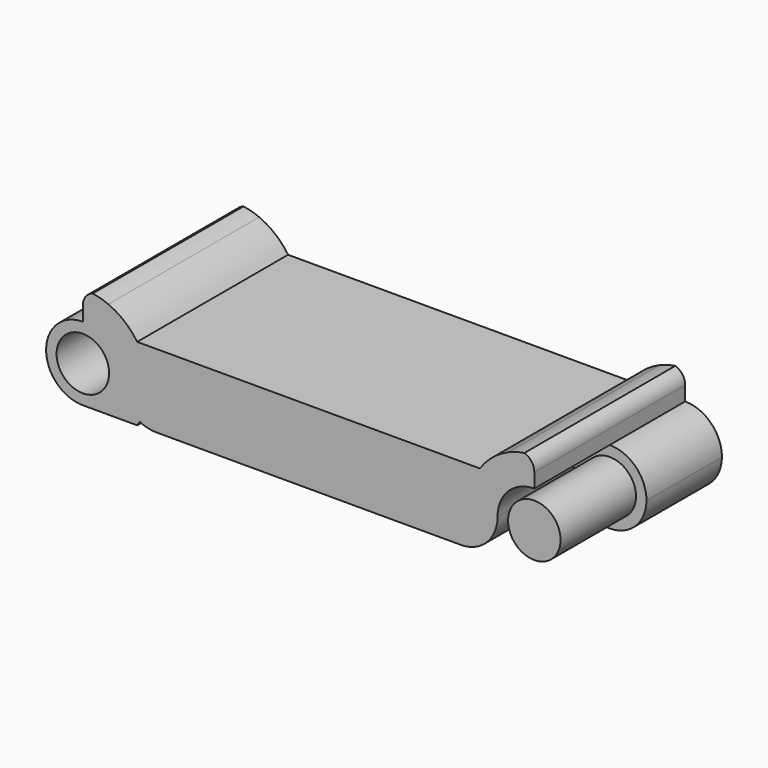
from build123d import *

# Parameters (mm, degrees)
F1_DEPTH = 14.37
F0_R     = 2
F2_DEPTH = 7.185
F3_DEPTH = 14.37


with BuildPart() as f1:
    # F0 (on Front) → F1 (new body)
    with BuildSketch(Plane.XZ):
        with BuildLine():
            Line((3.9000000034, 5.6), (2.8, 5.6))
            ThreePointArc((2.8, 5.6), (4.7798989873, 4.7798989873), (5.6, 2.8))
            ThreePointArc((5.6, 2.8), (6.0135800872, 1.3354181484), (7.1321428571, 0.3034947896))
            ThreePointArc((7.1321428571, 0.3034947896), (7.7481620558, 0.0769305381), (8.4, 0))
            Line((8.4, 0), (31.6, 0))
            ThreePointArc((31.6, 0), (32.2518379442, 0.0769305381), (32.8678571429, 0.3034947896))
            ThreePointArc((32.8678571429, 0.3034947896), (33.9864199128, 1.3354181484), (34.4, 2.8))
            ThreePointArc((34.4, 2.8), (35.2201010127, 4.7798989873), (37.2, 5.6))
            Line((37.2, 5.6), (37.2, 6.7))
            ThreePointArc((37.2, 6.7), (36.8778174593, 5.9221825407), (36.1, 5.6))
            Line((36.1, 5.6), (33.0575369646, 5.6))
            Line((33.0575369646, 5.6), (6.9424630354, 5.6))
            Line((6.9424630354, 5.6), (3.9000000034, 5.6))
        make_face()
        with BuildLine():
            ThreePointArc((35.2574998019, 7.4072435339), (34.0261653027, 6.6635182559), (33.0575369646, 5.6))
            Line((33.0575369646, 5.6), (36.1, 5.6))
            ThreePointArc((36.1, 5.6), (35.103012566, 6.2352247249), (35.2574998019, 7.4072435339))
        make_face()
        with BuildLine():
            ThreePointArc((35.2574998019, 7.4072435339), (35.103012566, 6.2352247249), (36.1, 5.6))
            ThreePointArc((36.1, 5.6), (36.8778174593, 5.9221825407), (37.2, 6.7))
            ThreePointArc((37.2, 6.7), (36.9926506427, 7.3427867688), (36.4487730361, 7.7432436768))
            ThreePointArc((36.4487730361, 7.7432436768), (35.8426991749, 7.6122483799), (35.2574998019, 7.4072435339))
        make_face()
        with BuildLine():
            ThreePointArc((4.7425001981, 7.4072435339), (4.8969874348, 6.2352247264), (3.9000000034, 5.6))
            Line((3.9000000034, 5.6), (6.9424630354, 5.6))
            ThreePointArc((6.9424630354, 5.6), (5.9738346973, 6.6635182559), (4.7425001981, 7.4072435339))
        make_face()
        with BuildLine():
            ThreePointArc((2.8, 6.7), (3.1221825419, 5.9221825395), (3.9000000034, 5.6))
            ThreePointArc((3.9000000034, 5.6), (4.8969874348, 6.2352247264), (4.7425001981, 7.4072435339))
            ThreePointArc((4.7425001981, 7.4072435339), (4.1573008251, 7.6122483799), (3.5512269639, 7.7432436768))
            ThreePointArc((3.5512269639, 7.7432436768), (3.0073493573, 7.3427867688), (2.8, 6.7))
        make_face()
        with BuildLine():
            Line((2.8, 6.7), (2.8, 5.6))
            Line((2.8, 5.6), (3.9000000034, 5.6))
            ThreePointArc((3.9000000034, 5.6), (3.1221825419, 5.9221825395), (2.8, 6.7))
        make_face()
    extrude(amount=F1_DEPTH)



with BuildPart() as f1b:
    # F0 (on Front) → F1, piece 2 (new body)
    with BuildSketch(Plane.XZ):
        with Locations((37.2, 2.8)):
            Circle(F0_R)
    extrude(amount=F1_DEPTH)


with BuildPart() as f1_1:
    add(f1.part)

    add(f1b.part)  # F2 merges F1b
    # F0 (on Front) → F2 (join)
    with BuildSketch(Plane.XZ):
        with BuildLine():
            ThreePointArc((34.4, 2.8), (35.2201010127, 0.8201010127), (37.2, 0))
            ThreePointArc((37.2, 0), (39.1798989873, 0.8201010127), (40, 2.8))
            ThreePointArc((40, 2.8), (39.1798989873, 4.7798989873), (37.2, 5.6))
            ThreePointArc((37.2, 5.6), (35.2201010127, 4.7798989873), (34.4, 2.8))
        make_face()
        with Locations((37.2, 2.8)):
            Circle(F0_R, mode=Mode.SUBTRACT)
    extrude(amount=F2_DEPTH)

    # F0 (on Front) → F3 (join)
    with BuildSketch(Plane.XZ):
        with BuildLine():
            ThreePointArc((5.6, 2.8), (4.7798989873, 0.8201010127), (2.8, 0))
            Line((2.8, 0), (6.9424630354, 0))
            ThreePointArc((6.9424630354, 0), (7.0400192842, 0.1500497232), (7.1321428571, 0.3034947896))
            ThreePointArc((7.1321428571, 0.3034947896), (6.0135800872, 1.3354181484), (5.6, 2.8))
        make_face()
        with BuildLine():
            ThreePointArc((2.8, 5.6), (0, 2.8), (2.8, 0))
            ThreePointArc((2.8, 0), (4.7798989873, 0.8201010127), (5.6, 2.8))
            ThreePointArc((5.6, 2.8), (4.7798989873, 4.7798989873), (2.8, 5.6))
        make_face()
        with Locations((2.8, 2.8)):
            Circle(F0_R, mode=Mode.SUBTRACT)
    extrude(amount=F3_DEPTH)


solid = f1_1.part
